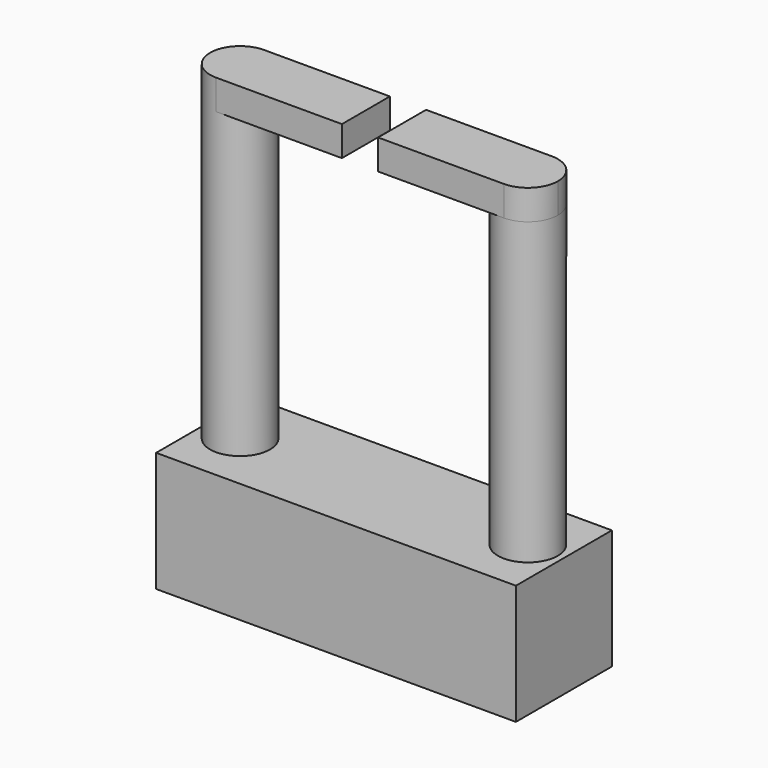
from build123d import *

# Parameters (mm, degrees)
F0_W     = 300
F0_H     = 100
F1_DEPTH = 100
F3_R     = 25
F4_DEPTH = 250
F6_DEPTH = 25
F7_DEPTH = 25
F8_W     = 30.181502
F8_H     = 25
F9_DEPTH = 75.001


with BuildPart() as f1:
    # F0 (on Top) → F1 (new body)
    with BuildSketch(Plane.XY):
        Rectangle(F0_W, F0_H)
    extrude(amount=F1_DEPTH)

    # F3 (on face) → F4 (join)
    with BuildSketch(Plane.XY.offset(100)):
        with Locations((120, 0)):
            Circle(F3_R)
        with Locations((-120, 0)):
            Circle(F3_R)
    extrude(amount=F4_DEPTH)

    # F5 (on face) → F6 (join)
    with BuildSketch(Plane.XY.offset(350)):
        with BuildLine():
            Line((120.000002, 25), (-120, 25))
            ThreePointArc((-120, 25), (-102.32233, 17.67767), (-95, 0))
            ThreePointArc((-95, 0), (-102.32233, -17.67767), (-120, -25))
            Line((-120, -25), (120.000002, -25))
            Line((120.000002, -25), (120.000002, 25))
        make_face()
        with BuildLine():
            ThreePointArc((-95, 0), (-102.32233, 17.67767), (-120, 25))
            Line((-120, 25), (-120, -25))
            ThreePointArc((-120, -25), (-102.32233, -17.67767), (-95, 0))
        make_face()
    extrude(amount=F6_DEPTH)

    # F4_face (on face) → F7 (join, through all)
    with BuildSketch(Plane(origin=(-120, 0, 350), x_dir=(1, 0, 0), z_dir=(0, 0, 1))):
        with BuildLine():
            Line((0, -25), (0, 25))
            ThreePointArc((0, 25), (-25, 0), (0, -25))
        make_face()
        with BuildLine():
            ThreePointArc((240.000002, -25), (257.67767, -17.677669), (265, 0))
            ThreePointArc((265, 0), (257.67767, 17.677669), (240.000002, 25))
            Line((240.000002, 25), (240.000002, -25))
        make_face()
    extrude(amount=F7_DEPTH)

    # F8 (on face) → F9 (cut, through all)
    with BuildSketch(Plane.XZ.offset(25)):
        with Locations((0, 362.5)):
            Rectangle(F8_W, F8_H)
    extrude(amount=-F9_DEPTH, mode=Mode.SUBTRACT)


solid = f1.part
